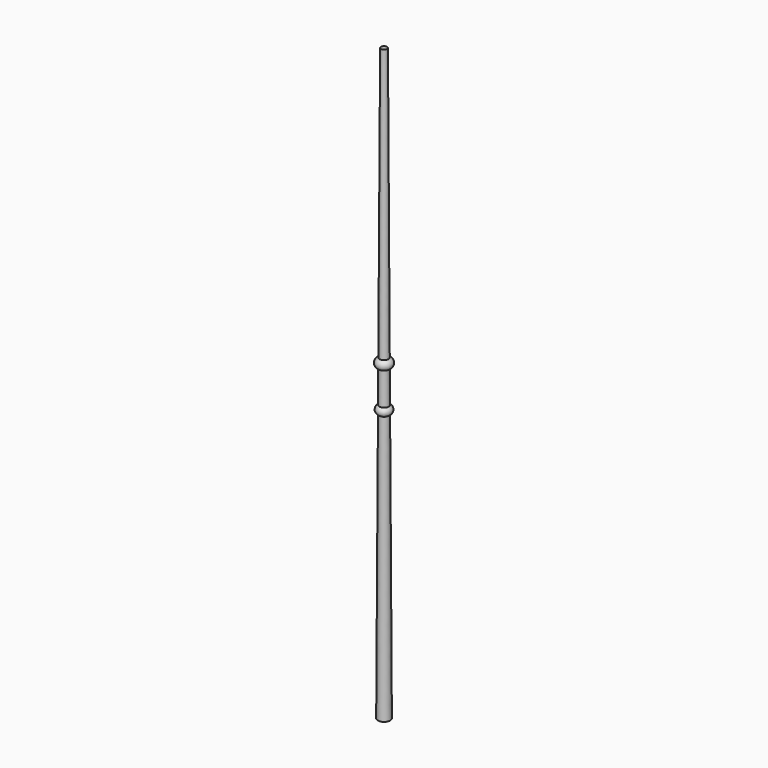
from build123d import *


with BuildPart() as f1:
    # F0 (on Front) → F1 (revolve)
    with BuildSketch(Plane.XZ):
        Polygon((-12.420051, 484.537964), (-15.302114, -68.818111), (-2.602114, -68.818111), (-2.602114, 1150.381889), (-8.952114, 1150.381889), (-11.884618, 587.341235), (-11.984287, 568.204641), (-12.333733, 501.11115), align=None)
        with BuildLine():
            ThreePointArc((-12.333733, 501.11115), (-17.871947, 492.853177), (-12.420051, 484.537964))
            Line((-12.420051, 484.537964), (-12.333733, 501.11115))
        make_face()
        with BuildLine():
            ThreePointArc((-11.884618, 587.341235), (-18.97074, 577.809586), (-11.984287, 568.204641))
            Line((-11.984287, 568.204641), (-11.884618, 587.341235))
        make_face()
    revolve(axis=Axis((-2.602114, 0, 540.781889), (0, 0, 1)))


solid = f1.part
